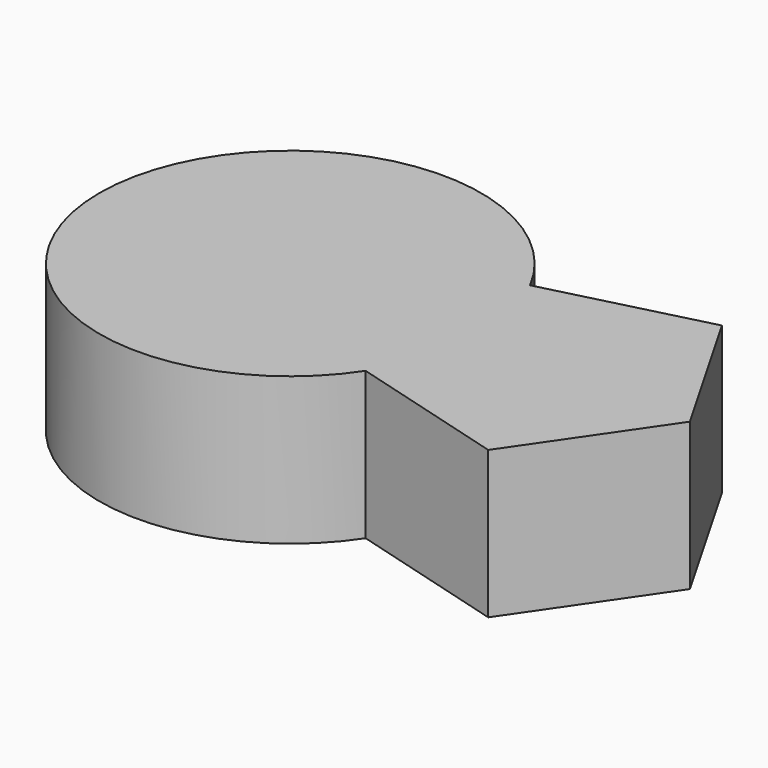
from build123d import *

# Parameters (mm, degrees)
PAD_DEPTH = 10


with BuildPart() as part:
    # Sketch → Pad (new body)
    with BuildSketch(Plane.XY):
        with BuildLine():
            ThreePointArc((30.793243, 28.920895), (6.376554, 23.603742), (30.12088, 15.815685))
            Line((30.12088, 15.815685), (40.865706, 12.784345))
            Line((40.865706, 12.784345), (47.180485, 21.991074))
            Line((47.180485, 21.991074), (41.614066, 31.668641))
            Line((41.614066, 31.668641), (30.793243, 28.920895))
        make_face()
    extrude(amount=PAD_DEPTH)


solid = part.part
